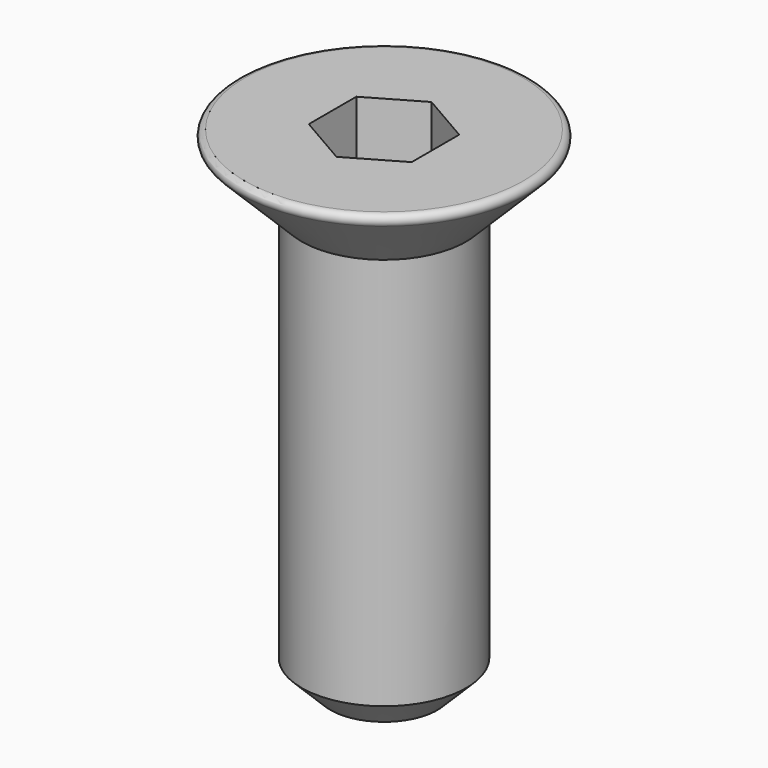
from build123d import *

# Parameters (mm, degrees)
F2_SIZE  = 0.7
F4_DEPTH = 2
F5_R     = 0.15


with BuildPart() as f1:
    # F0 (on Front) → F1 (revolve)
    with BuildSketch(Plane.XZ):
        Polygon((-2, 10.25), (-2, 0), (0, 0), (0, 12), (-3.75, 12), align=None)
    revolve(axis=Axis((0, 0, 15.756099), (0, 0, 1)))

    # F2
    f2_edges = [f1.edges().sort_by_distance(p)[0] for p in [
        (2, 0, 0),
    ]]
    chamfer(f2_edges, length=F2_SIZE)

    # F3 (on face) → F4 (cut)
    with BuildSketch(Plane.XY.offset(12)):
        Polygon((-1.25, 0.721688), (-1.25, -0.721688), (0, -1.443376), (1.25, -0.721688), (1.25, 0.721688), (0, 1.443376), align=None)
    extrude(amount=-F4_DEPTH, mode=Mode.SUBTRACT)

    # F5
    f5_edges = [f1.edges().sort_by_distance(p)[0] for p in [
        (3.75, 0, 12),
    ]]
    fillet(f5_edges, radius=F5_R)


solid = f1.part
